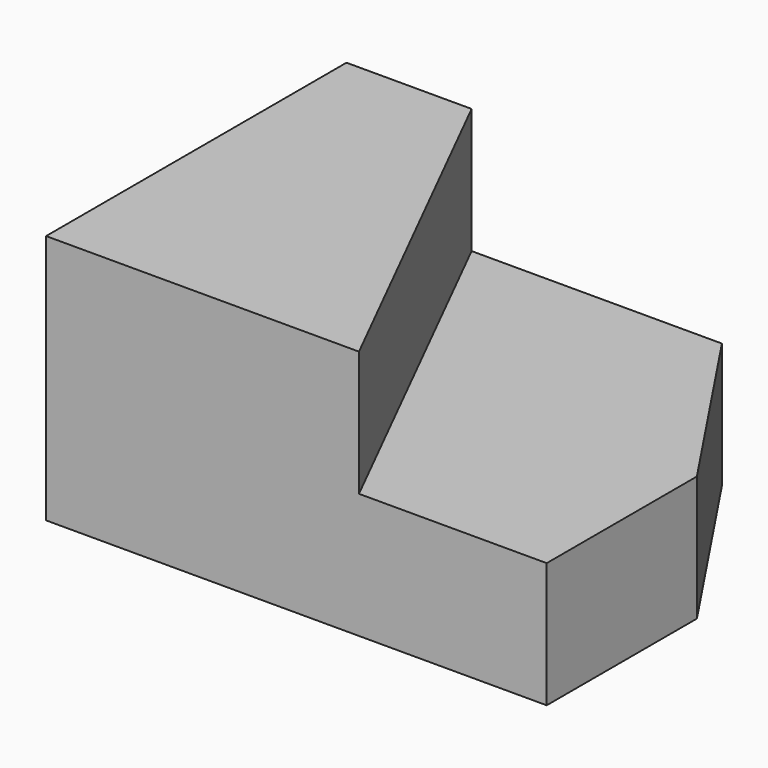
from build123d import *

# Parameters (mm, degrees)
F0_W     = 50.8
F0_H     = 38.1
F1_DEPTH = 25.4
F3_DEPTH = 12.7
F5_DEPTH = 25.4


with BuildPart() as f1:
    # F0 (on Top) → F1 (new body)
    with BuildSketch(Plane.XY):
        with Locations((65.2933099031, -40.0903208673)):
            Rectangle(F0_W, F0_H)
    extrude(amount=F1_DEPTH)

    # F2 (on face) → F3 (cut)
    with BuildSketch(Plane.XY.offset(25.4)):
        Polygon((90.6933099031, -21.0403208673), (52.5933099031, -21.0403208673), (71.6433099031, -59.1403208673), (90.6933099031, -59.1403208673), align=None)
    extrude(amount=-F3_DEPTH, mode=Mode.SUBTRACT)

    # F4 (on face) → F5 (cut)
    with BuildSketch(Plane.XY.offset(12.7)):
        Polygon((90.6933099031, -21.0403208673), (77.9933099031, -21.0403208673), (90.6933099031, -40.0903208673), align=None)
    extrude(amount=-F5_DEPTH, mode=Mode.SUBTRACT)


solid = f1.part
